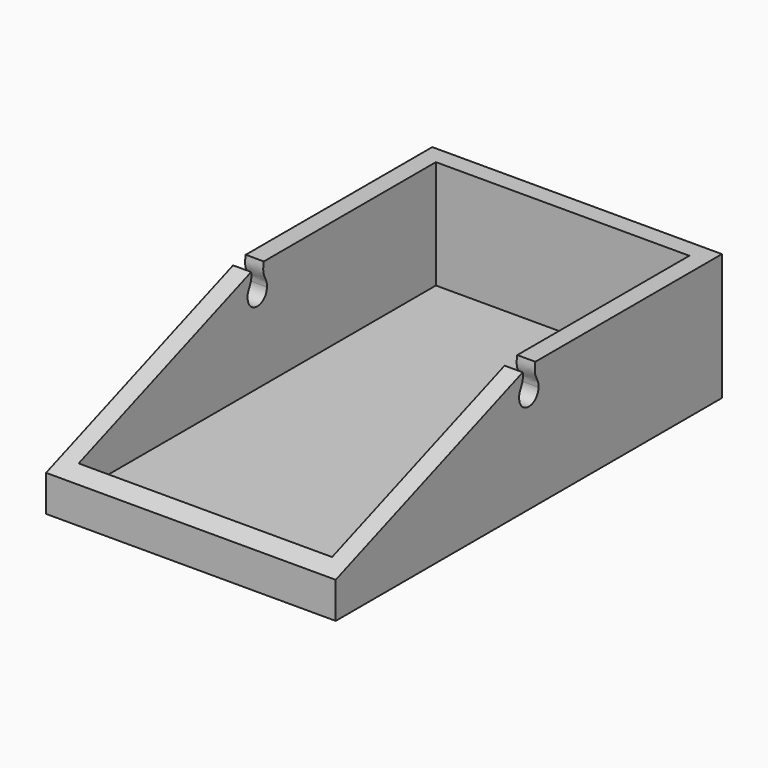
from build123d import *

# Parameters (mm, degrees)
F0_W     = 152.4
F0_H     = 254
F1_DEPTH = 9.525
F2_W     = 152.4
F2_H     = 254
F2_W_2   = 133.35
F2_H_2   = 234.95
F3_DEPTH = 57.15
F5_DEPTH = 152.401


with BuildPart() as f1:
    # F0 (on Top) → F1 (new body)
    with BuildSketch(Plane.XY):
        Rectangle(F0_W, F0_H)
    extrude(amount=F1_DEPTH)

    # F2 (on face) → F3 (join)
    with BuildSketch(Plane.XY.offset(9.525)):
        Rectangle(F2_W, F2_H)
        Rectangle(F2_W_2, F2_H_2, mode=Mode.SUBTRACT)
    extrude(amount=F3_DEPTH)

    # F4 (on face) → F5 (cut, through all)
    with BuildSketch(Plane.YZ.offset(76.2)):
        with BuildLine():
            Line((-127, 66.675), (-127, 19.05))
            Line((-127, 19.05), (-4.0201239704, 65.1674535111))
            add(Edge.make_bspline(
                [(-4.0201239704, 65.1674535111), (-4.084887365, 65.6563585182), (-4.1772574136, 66.1605990618), (-4.3000844307, 66.675)],
                knots=[0.9047570689, 0.9047570689, 0.9047570689, 0.9047570689, 1, 1, 1, 1], degree=3))
            Line((-4.3000844307, 66.675), (-127, 66.675))
        make_face()
        with BuildLine():
            Line((0, 66.675), (-4.0201239704, 65.1674535111))
            add(Edge.make_bspline(
                [(-6.35, 53.975), (-6.6047369801, 55.8170739007), (-5.1216855945, 58.6204590718), (-3.916212623, 61.1924199541), (-3.8355720634, 63.7742536647), (-4.0201239704, 65.1674535111)],
                knots=[0, 0, 0, 0, 0.3524232767, 0.6333496684, 0.9047570689, 0.9047570689, 0.9047570689, 0.9047570689], degree=3))
            ThreePointArc((-6.35, 53.975), (0, 60.325), (6.35, 53.975))
            add(Edge.make_bspline(
                [(6.35, 53.975), (6.6047369801, 55.8170739007), (5.1216855945, 58.6204590718), (3.7893136098, 61.4631678727), (3.8272454912, 64.6947451687), (4.3000844307, 66.675)],
                knots=[0, 0, 0, 0, 0.3524232767, 0.6333496684, 1, 1, 1, 1], degree=3))
            Line((4.3000844307, 66.675), (0, 66.675))
        make_face()
        with BuildLine():
            ThreePointArc((6.35, 53.975), (0, 60.325), (-6.35, 53.975))
            ThreePointArc((-6.35, 53.975), (0, 47.625), (6.35, 53.975))
        make_face()
        with BuildLine():
            add(Edge.make_bspline(
                [(-4.0201239704, 65.1674535111), (-4.084887365, 65.6563585182), (-4.1772574136, 66.1605990618), (-4.3000844307, 66.675)],
                knots=[0.9047570689, 0.9047570689, 0.9047570689, 0.9047570689, 1, 1, 1, 1], degree=3))
            Line((-4.0201239704, 65.1674535111), (0, 66.675))
            Line((0, 66.675), (-4.3000844307, 66.675))
        make_face()
    extrude(amount=-F5_DEPTH, mode=Mode.SUBTRACT)


solid = f1.part
